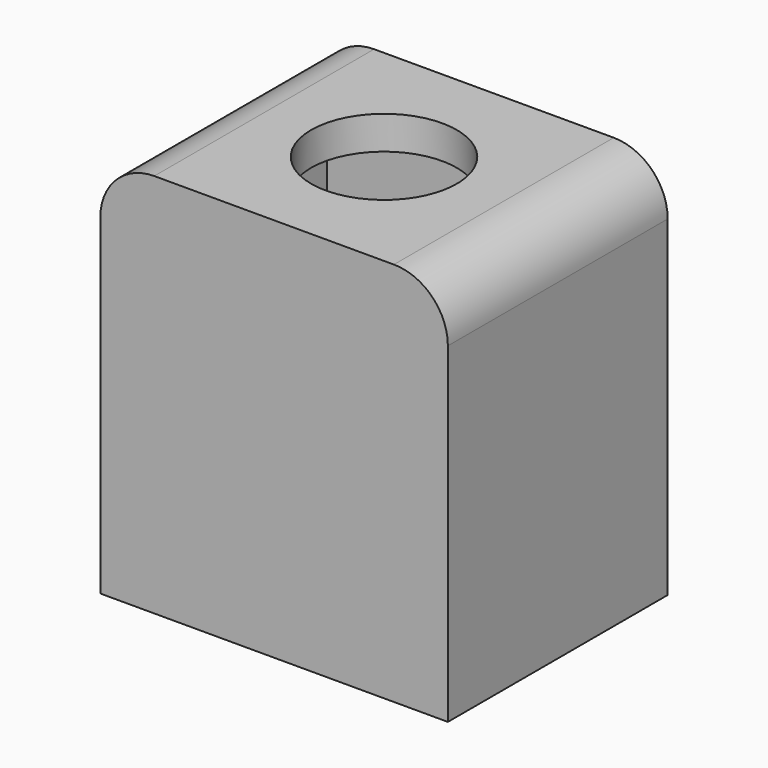
from build123d import *

# Parameters (mm, degrees)
F1_DEPTH = 13.2
F2_T     = -1.6
F4_D     = 7


with BuildPart() as f1:
    # F0 (on Front) → F1 (new body)
    with BuildSketch(Plane.XZ):
        with BuildLine():
            Line((-8.349, 15.907), (-8.349, 0))
            Line((-8.349, 0), (8.349, 0))
            Line((8.349, 0), (8.349, 15.907))
            ThreePointArc((8.349, 15.907), (7.5895278836, 17.7405278836), (5.756, 18.5))
            Line((5.756, 18.5), (-5.756, 18.5))
            ThreePointArc((-5.756, 18.5), (-7.5895278836, 17.7405278836), (-8.349, 15.907))
        make_face()
    extrude(amount=F1_DEPTH)

    # F2
    f2_openings = [f1.faces().sort_by_distance(p)[0] for p in [
        (0, -6.6, 0),
    ]]
    offset(amount=F2_T, openings=f2_openings)

    # F4 (through all)
    with Locations(Plane.XY.offset(18.5)):
        with Locations((0, -6.6)):
            Hole(F4_D / 2)


solid = f1.part
